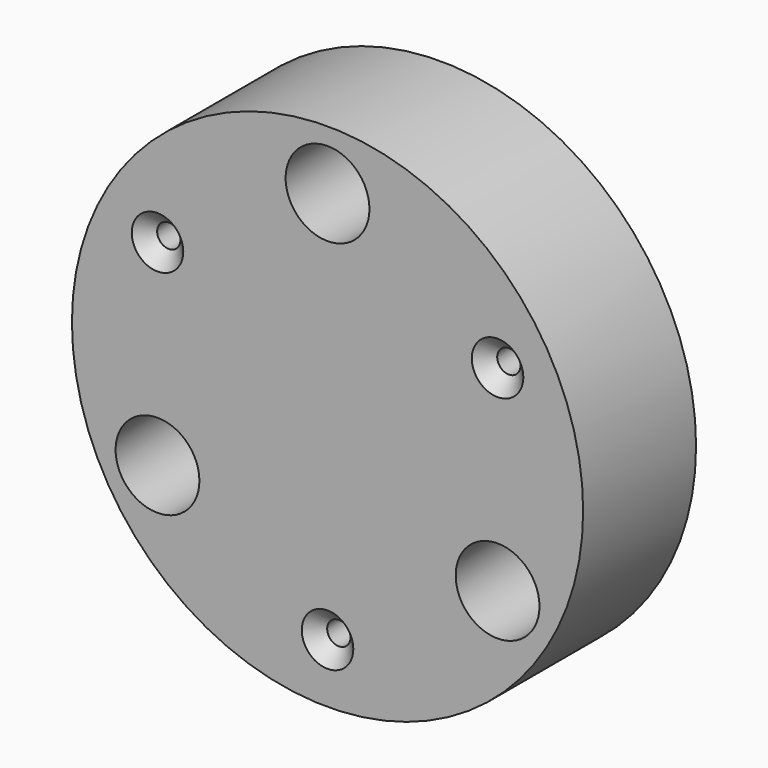
from build123d import *

# Parameters (mm, degrees)
F0_R     = 45.9994
F0_R_2   = 7.53999
F0_R_3   = 2.0955
F1_DEPTH = 25.4
F2_SIZE  = 2.54
F3_SIZE  = 2.54
F4_SIZE  = 2.54


with BuildPart() as f1:
    # F0 (on Front) → F1 (new body)
    with BuildSketch(Plane.XZ):
        Circle(F0_R)
        with Locations((-30.59789, -17.6657)):
            Circle(F0_R_2, mode=Mode.SUBTRACT)
        with Locations((0, -35.3314)):
            Circle(F0_R_3, mode=Mode.SUBTRACT)
        with Locations((30.59789, -17.6657)):
            Circle(F0_R_2, mode=Mode.SUBTRACT)
        with Locations((-30.59789, 17.6657)):
            Circle(F0_R_3, mode=Mode.SUBTRACT)
        with Locations((30.59789, 17.6657)):
            Circle(F0_R_3, mode=Mode.SUBTRACT)
        with Locations((0, 35.3314)):
            Circle(F0_R_2, mode=Mode.SUBTRACT)
    extrude(amount=-F1_DEPTH)

    # F2
    f2_edges = [f1.edges().sort_by_distance(p)[0] for p in [
        (-32.69339, 0, 17.6657),
    ]]
    chamfer(f2_edges, length=F2_SIZE)

    # F3
    f3_edges = [f1.edges().sort_by_distance(p)[0] for p in [
        (28.50239, 0, 17.6657),
    ]]
    chamfer(f3_edges, length=F3_SIZE)

    # F4
    f4_edges = [f1.edges().sort_by_distance(p)[0] for p in [
        (-2.0955, 0, -35.3314),
    ]]
    chamfer(f4_edges, length=F4_SIZE)


solid = f1.part
